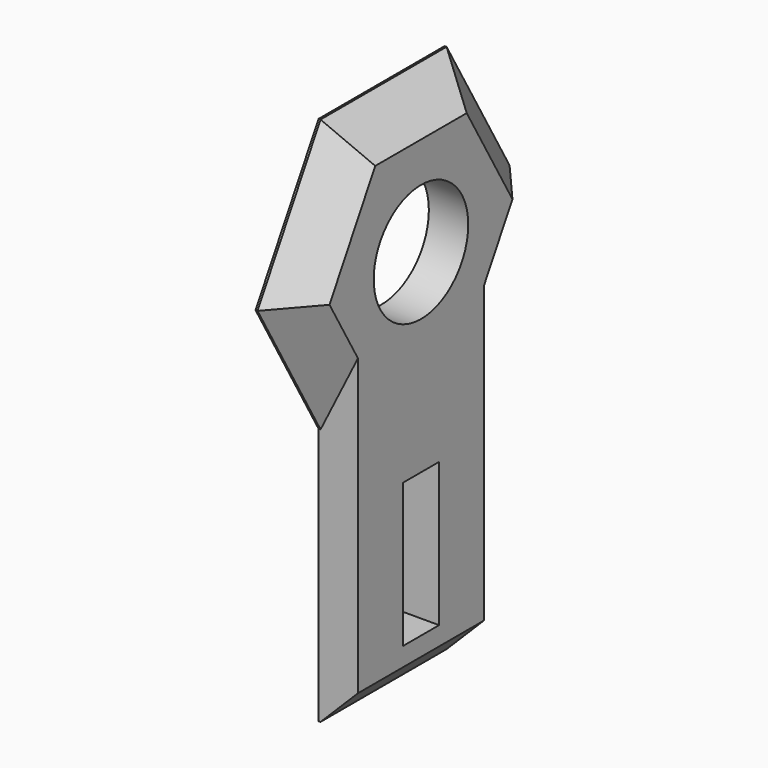
from build123d import *

# Parameters (mm, degrees)
SKETCH073_R     = 3
SKETCH073_W     = 2.3
SKETCH073_H     = 7.3
PAD053_DEPTH    = 2
CHAMFER_SIZE    = 1.9
CHAMFER006_SIZE = 1.9


with BuildPart() as part:
    # Sketch073 → Pad053 (new body)
    with BuildSketch(Plane.YZ.offset(31.5)):
        Polygon((8, 0), (4, 6.928203), (-4, 6.928203), (-8, 0), (-4, -6.928203), (-4, -20), (4, -20), (4, -6.928203), align=None)
        Circle(SKETCH073_R, mode=Mode.SUBTRACT)
        with Locations((0, -13.5)):
            Rectangle(SKETCH073_W, SKETCH073_H, mode=Mode.SUBTRACT)
    extrude(amount=PAD053_DEPTH)

    # Chamfer
    chamfer_edges = [part.edges().sort_by_distance(p)[0] for p in [
        (33.5, -6, 3.464102),
        (33.5, -6, -3.464102),
        (33.5, 0, 6.928203),
        (33.5, 6, 3.464102),
        (33.5, 6, -3.464102),
    ]]
    chamfer(chamfer_edges, length=CHAMFER_SIZE)

    # Chamfer006
    chamfer006_edges = [part.edges().sort_by_distance(p)[0] for p in [
        (33.5, 0, -20),
    ]]
    chamfer(chamfer006_edges, length=CHAMFER006_SIZE)


solid = part.part
